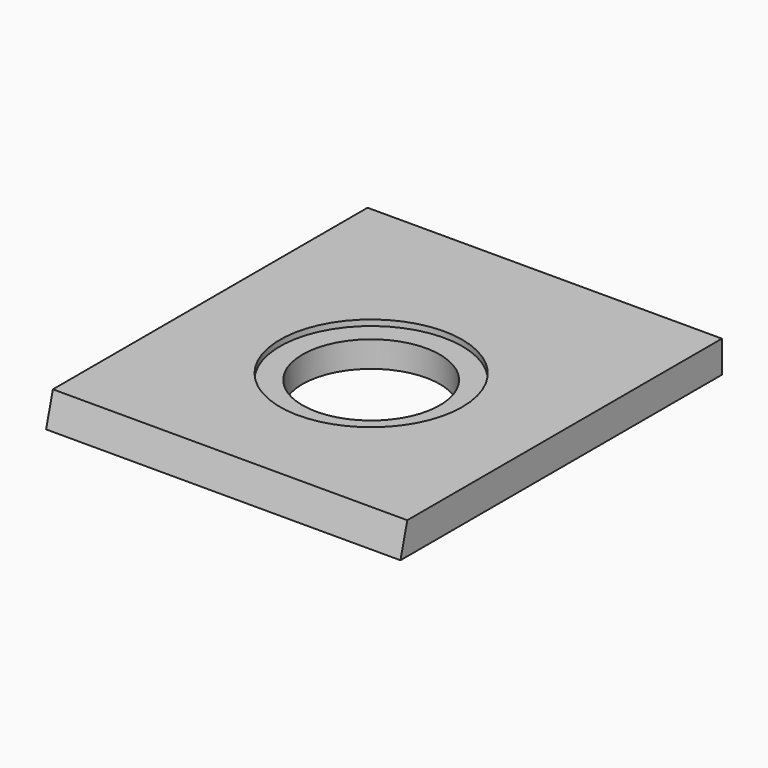
from build123d import *

# Parameters (mm, degrees)
F0_W     = 245
F0_H     = 277.8
F1_DEPTH = 22
F3_D     = 95
F4_R     = 63
F5_DEPTH = 4
F7_DEPTH = 245.001


with BuildPart() as f1:
    # F0 (on Top) → F1 (new body)
    with BuildSketch(Plane.XY):
        Rectangle(F0_W, F0_H)
    extrude(amount=F1_DEPTH)

    # F3 (through all)
    with Locations(Plane.XY.offset(22)):
        with Locations((0, -11.1)):
            Hole(F3_D / 2)

    # F4 (on face) → F5 (cut)
    with BuildSketch(Plane.XY.offset(22)):
        with Locations((0, -11.1)):
            Circle(F4_R)
    extrude(amount=-F5_DEPTH, mode=Mode.SUBTRACT)

    # F6 (on face) → F7 (cut, through all)
    with BuildSketch(Plane(origin=(-122.5, 0, 0), x_dir=(0, -1, 0), z_dir=(-1, 0, 0))):
        Polygon((133.005118, 22), (138.9, 0), (138.9, 22), align=None)
    extrude(amount=-F7_DEPTH, mode=Mode.SUBTRACT)


solid = f1.part
